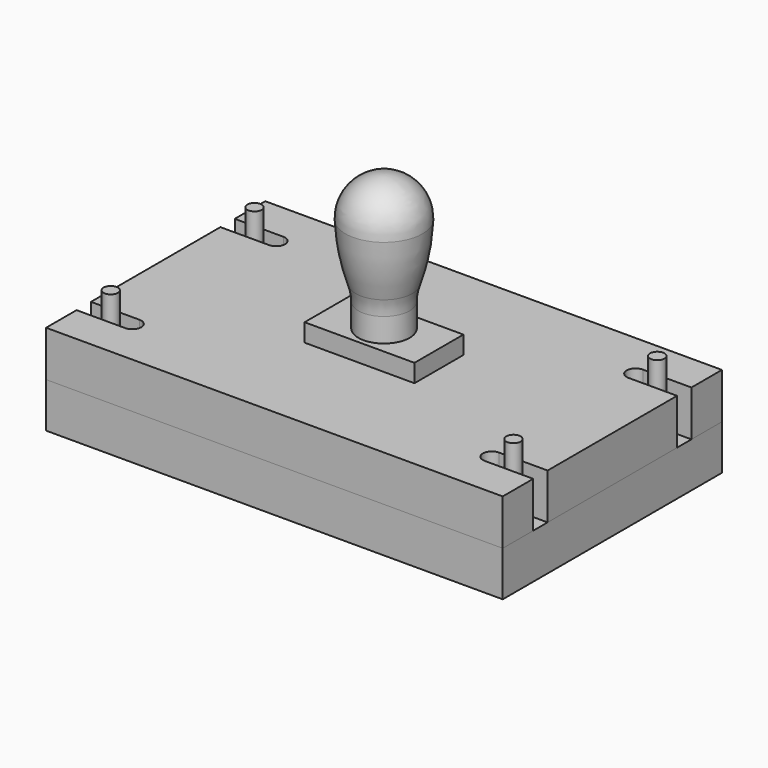
from build123d import *

# Parameters (mm, degrees)
SKETCH_W                   = 254
SKETCH_H                   = 152.4
PAD_DEPTH                  = 25.4
POCKET_DEPTH               = 619.999755
POCKET_MIRRORED_2_DEPTH    = 619.999755
SKETCH002_W                = 61.12
SKETCH002_H                = 34.03
PAD001_DEPTH               = 10
POCKET001_DEPTH            = 16
SKETCH005_W                = 254
SKETCH005_H                = 152.4
PAD002_DEPTH               = 25
SKETCH007_R                = 4
PAD003_DEPTH               = 38
SKETCH007_MIRRORED002_2_R  = 4
PAD003_MIRRORED002_2_DEPTH = 38


with BuildPart() as body:
    # Sketch → Pad (new body)
    with BuildSketch(Plane.XY):
        Rectangle(SKETCH_W, SKETCH_H)
    extrude(amount=PAD_DEPTH)

    # Sketch001 (on Face6 of Pad) → Pocket (cut, through all)
    with BuildSketch(Plane.XY.offset(25.4)):
        with BuildLine():
            Line((133.014114, 55), (100, 55))
            ThreePointArc((100, 55), (95, 50), (100, 45))
            Line((100, 45), (133.014114, 45))
            Line((133.014114, 45), (133.014114, 55))
        make_face()
    pocket = extrude(amount=-POCKET_DEPTH, mode=Mode.SUBTRACT)

    # Sketch001 Mirrored 2 → Pocket Mirrored 2 (cut, through all)
    with BuildSketch(Plane(origin=(0, 0, 25.4), x_dir=(-1, 0, 0), z_dir=(0, 0, -1))):
        with BuildLine():
            Line((133.014114, 55), (100, 55))
            ThreePointArc((100, 55), (95, 50), (100, 45))
            Line((100, 45), (133.014114, 45))
            Line((133.014114, 45), (133.014114, 55))
        make_face()
    pocket_mirrored_2 = extrude(amount=POCKET_MIRRORED_2_DEPTH, mode=Mode.SUBTRACT)

    # Mirrored001: Pocket, Pocket Mirrored 2 across XZ
    add(pocket.mirror(Plane.XZ), mode=Mode.SUBTRACT)
    add(pocket_mirrored_2.mirror(Plane.XZ), mode=Mode.SUBTRACT)

    # Sketch002 (on Face5 of MultiTransform) → Pad001 (join)
    with BuildSketch(Plane.XY.offset(25.4)):
        Rectangle(SKETCH002_W, SKETCH002_H)
    extrude(amount=PAD001_DEPTH)

    # Sketch003 → Revolution (revolve)
    with BuildSketch(Plane.XZ):
        with BuildLine():
            Line((0, 35.4), (14.254485, 35.4))
            Line((14.254485, 35.4), (14.254485, 48.629384))
            ThreePointArc((15.725214, 57.54054), (14.624637, 53.145238), (14.254485, 48.629384))
            ThreePointArc((15.725214, 57.54054), (19.719001, 72.902145), (21.442283, 88.680597))
            ThreePointArc((21.442283, 88.680597), (15.442452, 104.349163), (0, 110.909087))
            Line((0, 110.909087), (0, 35.4))
        make_face()
    revolve(axis=Axis((0, 0, 0), (0, 0, 1)))

    # Sketch004 (on Face4 of Revolution) → Pocket001 (cut)
    with BuildSketch(Plane(origin=(0, 0, 0), x_dir=(1, 0, 0), z_dir=(0, 0, -1))):
        with BuildLine():
            ThreePointArc((-70.292156, -4.561816), (12.226985, 0), (-70.292156, 4.561816))
            Line((-139.742546, 4.561816), (-70.292156, 4.561816))
            Line((-139.742546, -4.561816), (-139.742546, 4.561816))
            Line((-70.292156, -4.561816), (-139.742546, -4.561816))
        make_face()
    extrude(amount=-POCKET001_DEPTH, mode=Mode.SUBTRACT)


with BuildPart() as body001:
    # Sketch005 (on Face1 of ShapeBinder) → Pad002 (new body)
    with BuildSketch(Plane(origin=(0, 0, 0), x_dir=(1, 0, 0), z_dir=(0, 0, -1))):
        Rectangle(SKETCH005_W, SKETCH005_H)
    extrude(amount=PAD002_DEPTH)

    # Sketch007 (on Face5 of Pad002) → Pad003 (join)
    with BuildSketch(Plane.XY):
        with Locations((-112, 50)):
            Circle(SKETCH007_R)
    pad003 = extrude(amount=PAD003_DEPTH)

    # Sketch007 Mirrored002 2 → Pad003 Mirrored002 2 (add)
    with BuildSketch(Plane(origin=(0, 0, 0), x_dir=(1, 0, 0), z_dir=(0, 0, -1))):
        with Locations((-112, 50)):
            Circle(SKETCH007_MIRRORED002_2_R)
    pad003_mirrored002_2 = extrude(amount=-PAD003_MIRRORED002_2_DEPTH)

    # Mirrored003: Pad003, Pad003 Mirrored002 2 across YZ
    add(pad003.mirror(Plane.YZ))
    add(pad003_mirrored002_2.mirror(Plane.YZ))


solid = Compound([body.part, body001.part])
